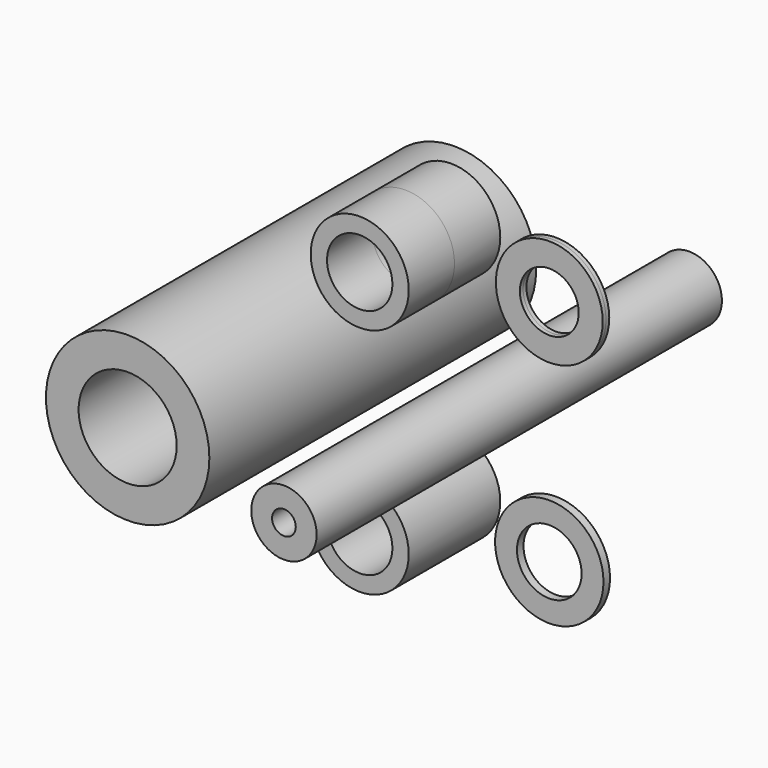
from build123d import *

# Parameters (mm, degrees)
F0_R      = 50
F0_R_2    = 30
F1_DEPTH  = 125
F2_R      = 30
F2_R_2    = 20
F3_DEPTH  = 35
F4_R      = 32.693703
F4_R_2    = 18.008062
F4_R_3    = 33.165405
F4_R_4    = 19.78123
F5_DEPTH  = 2.5
F6_R      = 20
F7_DEPTH  = 155
F8_R      = 7.25
F9_DEPTH  = 40
F10_R     = 7.25
F11_DEPTH = 40


with BuildPart() as f1:
    # F0 (on Front) → F1 (new body, symmetric)
    with BuildSketch(Plane.XZ):
        with Locations((-70, 0)):
            Circle(F0_R)
        with Locations((-70, 0)):
            Circle(F0_R_2, mode=Mode.SUBTRACT)
    extrude(amount=F1_DEPTH, both=True)


with BuildPart() as f3:
    # F2 (on Front) → F3 (new body, symmetric)
    with BuildSketch(Plane.XZ):
        with Locations((0, 70)):
            Circle(F2_R)
        with Locations((0, 70)):
            Circle(F2_R_2, mode=Mode.SUBTRACT)
        with Locations((0, -72.258064)):
            Circle(F2_R)
        with Locations((0, -72.258064)):
            Circle(F2_R_2, mode=Mode.SUBTRACT)
    extrude(amount=F3_DEPTH, both=True)


with BuildPart() as f5:
    # F4 (on Front) → F5 (new body, symmetric)
    with BuildSketch(Plane.XZ):
        with Locations((90, 70)):
            Circle(F4_R)
        with Locations((90, 70)):
            Circle(F4_R_2, mode=Mode.SUBTRACT)
        with Locations((90, -70)):
            Circle(F4_R_3)
        with Locations((90, -70)):
            Circle(F4_R_4, mode=Mode.SUBTRACT)
    extrude(amount=F5_DEPTH, both=True)


with BuildPart() as f7:
    # F6 (on Front) → F7 (new body, symmetric)
    with BuildSketch(Plane.XZ):
        with Locations((49.630965, 0)):
            Circle(F6_R)
    extrude(amount=F7_DEPTH, both=True)

    # F8 (on face) → F9 (cut)
    with BuildSketch(Plane.XZ.offset(155)):
        with Locations((49.630965, 0)):
            Circle(F8_R)
    extrude(amount=-F9_DEPTH, mode=Mode.SUBTRACT)

    # F10 (on face) → F11 (cut)
    with BuildSketch(Plane(origin=(0, 155, 0), x_dir=(-1, 0, 0), z_dir=(0, 1, 0))):
        with Locations((-49.630965, 0)):
            Circle(F10_R)
    extrude(amount=-F11_DEPTH, mode=Mode.SUBTRACT)


solid = Compound([f1.part, f3.part, f5.part, f7.part])
